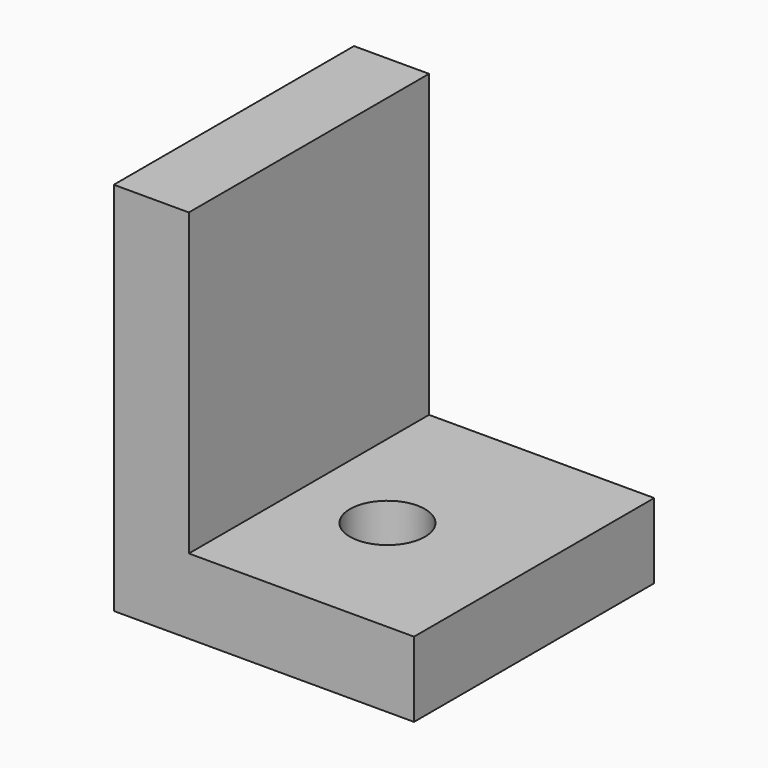
from build123d import *

# Parameters (mm, degrees)
F0_W     = 38.1
F0_H     = 50.8
F0_W_2   = 12.7
F1_DEPTH = 12.7
F2_W     = 12.7
F2_H     = 50.8
F3_DEPTH = 50.8
F5_D     = 12.7


with BuildPart() as f1:
    # F0 (on Top) → F1 (new body)
    with BuildSketch(Plane.XY):
        with Locations((8.953065, 2.179184)):
            Rectangle(F0_W, F0_H)
        with Locations((-16.446935, 2.179184)):
            Rectangle(F0_W_2, F0_H)
    extrude(amount=F1_DEPTH)

    # F2 (on face) → F3 (join)
    with BuildSketch(Plane.XY.offset(12.7)):
        with Locations((-16.446935, 2.179184)):
            Rectangle(F2_W, F2_H)
    extrude(amount=F3_DEPTH)

    # F5 (through all)
    with Locations(Plane.XY.offset(12.7)):
        with Locations((4.928324, 0)):
            Hole(F5_D / 2)


solid = f1.part
